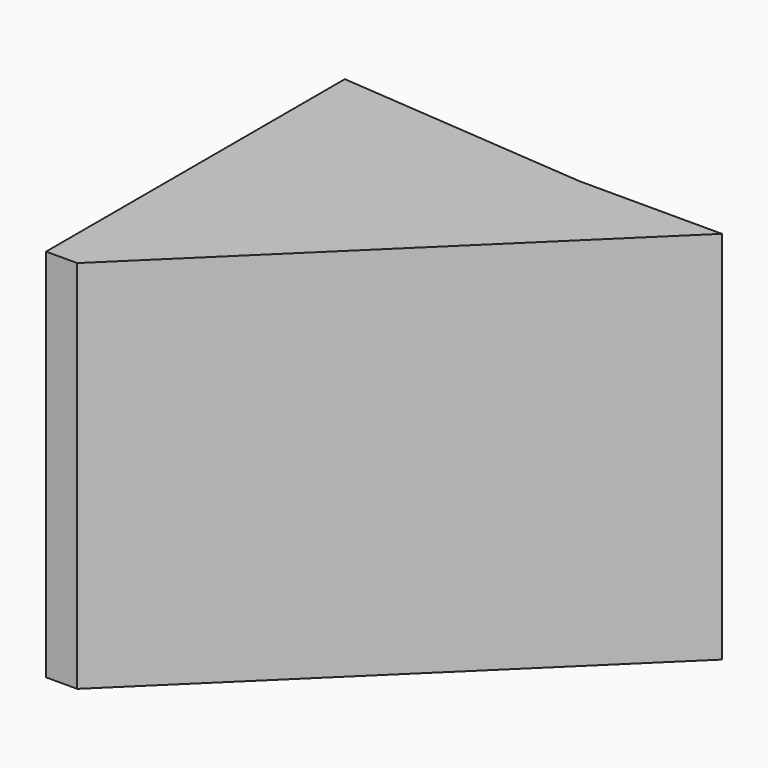
from build123d import *

# Parameters (mm, degrees)
F1_DEPTH = 25.4


with BuildPart() as f1:
    # F0 (on Top) → F1 (new body)
    with BuildSketch(Plane.XY):
        Polygon((0, 25.306121), (0, 0), (17.029155, 23.929957), align=None)
        Polygon((17.029155, 23.929957), (0, 0), (2.108372, 0), align=None)
        Polygon((26.65198, 23.929957), (17.029155, 23.929957), (2.108372, 0), align=None)
    extrude(amount=F1_DEPTH)


solid = f1.part
